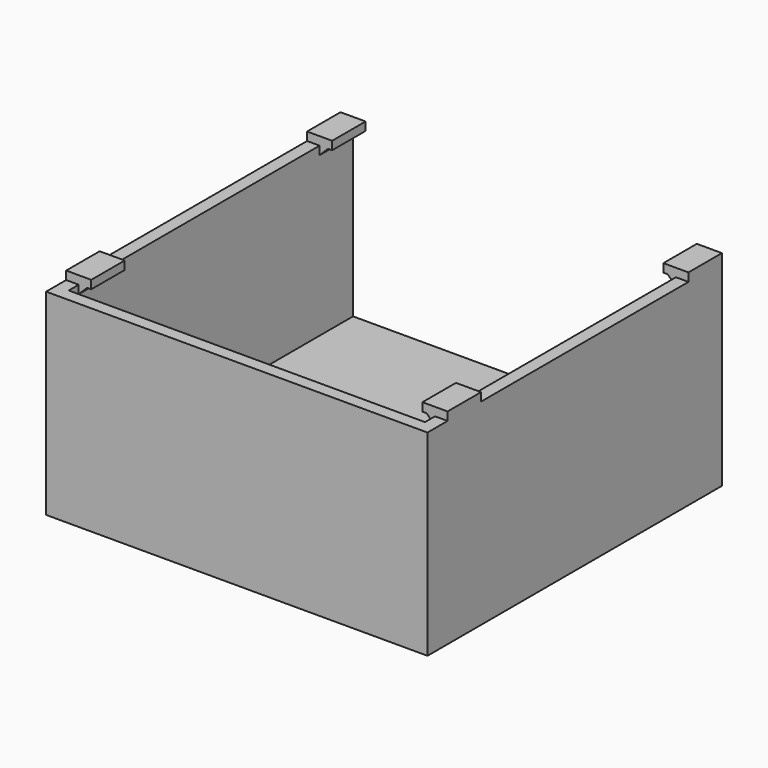
from build123d import *

# Parameters (mm, degrees)
SKETCH_W         = 45.6
SKETCH_H         = 44
SKETCH_R         = 2
PAD_DEPTH        = 3.5
PAD001_DEPTH     = 20
SKETCH002_W      = 3
SKETCH002_H      = 5
PAD002_DEPTH     = 1
CHAMFER_SIZE     = 1
CHAMFER001_ANGLE = 45
CHAMFER001_SIZE  = 2.5


with BuildPart() as part:
    # Sketch → Pad (new body)
    with BuildSketch(Plane.XY):
        Rectangle(SKETCH_W, SKETCH_H)
        with Locations((-11.4, 0)):
            Circle(SKETCH_R, mode=Mode.SUBTRACT)
        with Locations((11.4, 0)):
            Circle(SKETCH_R, mode=Mode.SUBTRACT)
    extrude(amount=PAD_DEPTH)

    # Sketch001 (on Face8 of Pad) → Pad001 (join)
    with BuildSketch(Plane.XY.offset(3.5)):
        Polygon((-22.8, 22), (-22.8, -22), (22.8, -22), (22.8, 22), (21.3, 22), (21.3, -20.5), (-21.3, -20.5), (-21.3, 22), align=None)
    extrude(amount=PAD001_DEPTH)

    # Sketch002 (on Face14 of Pad001) → Pad002 (join)
    with BuildSketch(Plane.XY.offset(23.5)):
        with Locations((-21.3, 19.5)):
            Rectangle(SKETCH002_W, SKETCH002_H)
        with Locations((21.3, 19.5)):
            Rectangle(SKETCH002_W, SKETCH002_H)
        with Locations((-21.3, -16.5)):
            Rectangle(SKETCH002_W, SKETCH002_H)
        with Locations((21.3, -16.5)):
            Rectangle(SKETCH002_W, SKETCH002_H)
    extrude(amount=PAD002_DEPTH)

    # Chamfer
    chamfer_edges = [part.edges().sort_by_distance(p)[0] for p in [
        (-21.3, -16.5, 23.5),
        (-21.3, 19.5, 23.5),
        (21.3, -16.5, 23.5),
        (21.3, 19.5, 23.5),
    ]]
    chamfer(chamfer_edges, length=CHAMFER_SIZE)

    # Chamfer001
    chamfer001_edges = [part.edges().sort_by_distance(p)[0] for p in [
        (9.4, 0, 3.5),
        (-13.4, 0, 3.5),
    ]]
    chamfer001_side = part.faces().sort_by_distance((0, 0.760558, 3.5))[0]
    chamfer(chamfer001_edges, length=CHAMFER001_SIZE, angle=CHAMFER001_ANGLE, reference=chamfer001_side)


solid = part.part
